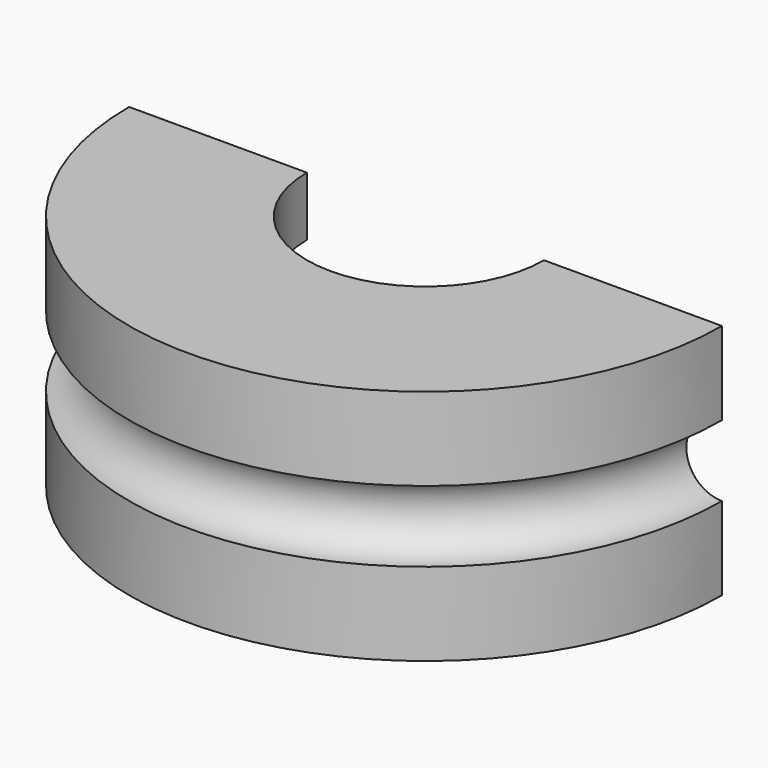
from build123d import *

# Parameters (mm, degrees)
REVOLUTION_ANGLE = -180
SKETCH001_R      = 6
GROOVE_ANGLE     = 180


with BuildPart() as part:
    # Sketch → Revolution (revolve)
    with BuildSketch(Plane.XZ):
        with BuildLine():
            Line((20, 40), (50, 40))
            Line((50, 40), (50, 0))
            Line((50, 0), (20, 0))
            Line((20, 0), (20, 10))
            ThreePointArc((20, 10), (30, 20), (20, 30))
            Line((20, 30), (20, 40))
        make_face()
    revolve(axis=Axis((0, 0, 0), (0, 0, 1)), revolution_arc=REVOLUTION_ANGLE)

    # Sketch001 (on Face8 of Revolution) → Groove (revolve, cut)
    with BuildSketch(Plane(origin=(0, 0, 0), x_dir=(1, 0, 0), z_dir=(0, 1, 0))):
        with Locations((50, -20)):
            Circle(SKETCH001_R)
    revolve(axis=Axis((0, 0, 0), (0, 0, -1)), revolution_arc=GROOVE_ANGLE, mode=Mode.SUBTRACT)


solid = part.part
